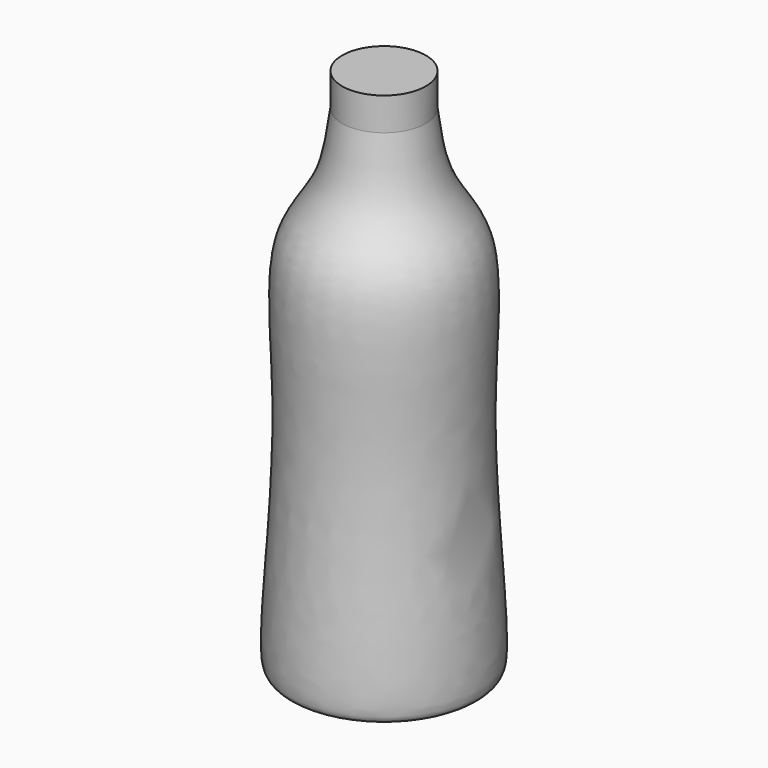
from build123d import *

# Parameters (mm, degrees)
F0_W = 10.8219860122
F0_H = 8.4938965738


with BuildPart() as f1:
    # F0 (on Front) → F1 (revolve)
    with BuildSketch(Plane.XZ):
        with Locations((-5.4109930061, 56.9105986506)):
            Rectangle(F0_W, F0_H)
        with BuildLine():
            add(Edge.make_bspline(
                [(-10.8219860122, 52.6636503637), (-11.6106941817, 46.6612804566), (-13.135095415, 35.0600058129), (-25.7534269355, 22.5073978325), (-20.1778747984, -16.5958697884), (-26.1273999313, -70.4761303339), (-23.8144802182, -75.4341293366), (-20.3314996458, -75.7227292927), (-18.4664893895, -75.877264142)],
                knots=[0, 0, 0, 0, 0.1603383006, 0.3098990381, 0.5573514169, 0.839891252, 0.9142675502, 1, 1, 1, 1], degree=3))
            Line((-18.4664893895, -75.877264142), (0, -75.877264142))
            Line((0, -75.877264142), (0, 52.6636503637))
            Line((0, 52.6636503637), (-10.8219860122, 52.6636503637))
        make_face()
    revolve(axis=Axis((0, 0, 0.4262067378), (0, 0, -1)))


solid = f1.part
